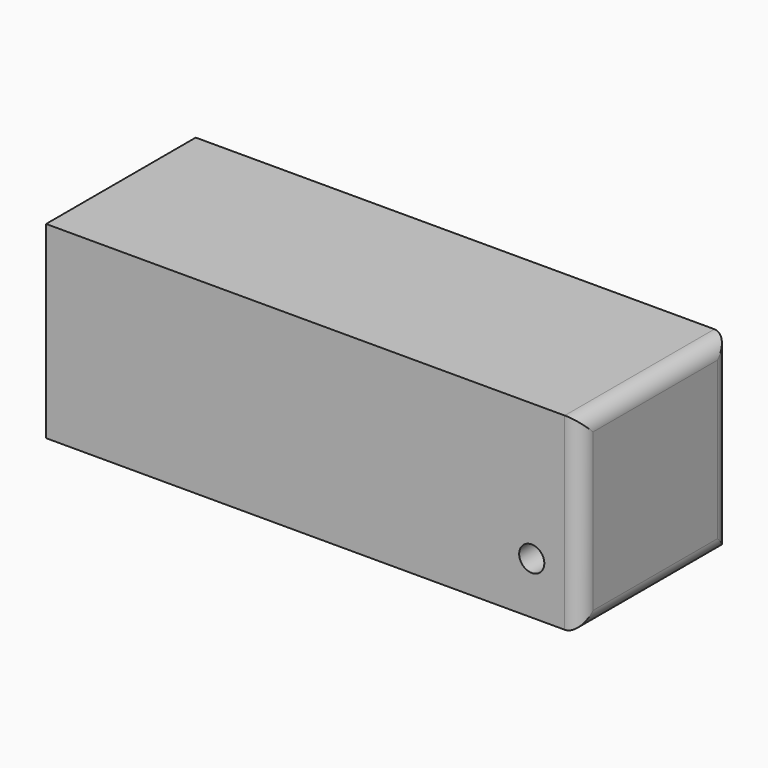
from build123d import *

# Parameters (mm, degrees)
SKETCH060_W     = 59.5
SKETCH060_H     = 60
PAD021_DEPTH    = 170
FILLET004_R     = 5
SKETCH061_R     = 4
POCKET038_DEPTH = 59.501


with BuildPart() as part:
    # Sketch060 → Pad021 (new body)
    with BuildSketch(Plane.YZ):
        Rectangle(SKETCH060_W, SKETCH060_H)
    extrude(amount=PAD021_DEPTH)

    # Fillet004
    fillet004_edges = [part.edges().sort_by_distance(p)[0] for p in [
        (170, 29.75, 0),
        (170, 0, 30),
        (170, 0, -30),
        (170, -29.75, 0),
    ]]
    fillet(fillet004_edges, radius=FILLET004_R)

    # Sketch061 (on Face5 of Fillet004) → Pocket038 (cut, through all)
    with BuildSketch(Plane.ZX.offset(29.75)):
        with Locations((-13.5, 154.5)):
            Circle(SKETCH061_R)
    extrude(amount=-POCKET038_DEPTH, mode=Mode.SUBTRACT)


solid = part.part
